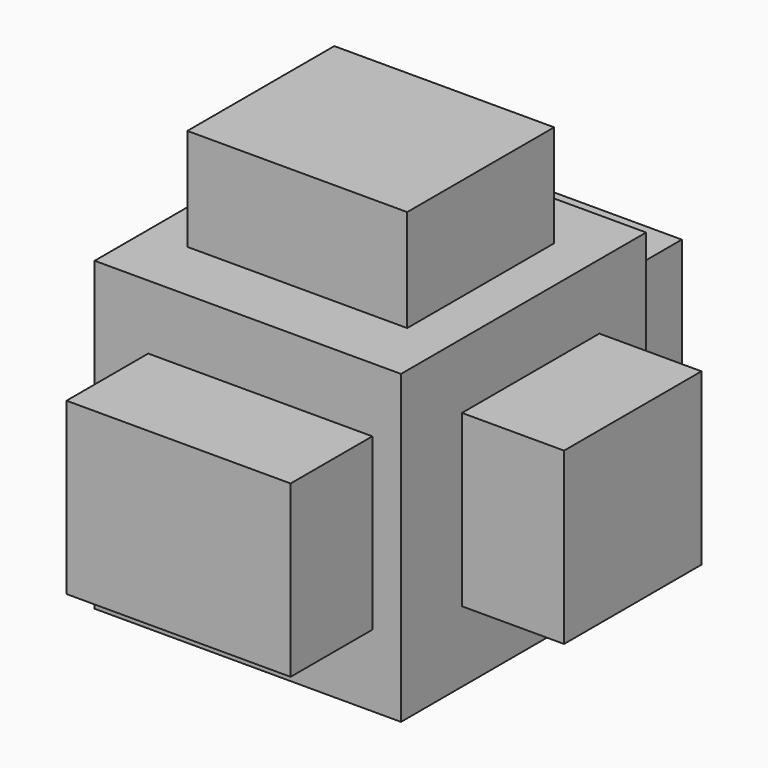
from build123d import *

# Parameters (mm, degrees)
F0_W     = 76.2
F0_H     = 76.2
F1_DEPTH = 76.2
F2_W     = 54.685028
F2_H     = 45.677146
F3_DEPTH = 25.4
F4_W     = 42.722562
F4_H     = 42.343364
F5_DEPTH = 25.4
F6_W     = 55.741564
F6_H     = 42.343369
F7_DEPTH = 25.4
F8_W     = 50.938437
F8_H     = 42.216968
F9_DEPTH = 25.4


with BuildPart() as f1:
    # F0 (on Front) → F1 (new body)
    with BuildSketch(Plane.XZ):
        with Locations((-10.427844, 12.754826)):
            Rectangle(F0_W, F0_H)
    extrude(amount=F1_DEPTH)

    # F2 (on face) → F3 (join)
    with BuildSketch(Plane.XY.offset(50.854826)):
        with Locations((-10.77026, -37.553833)):
            Rectangle(F2_W, F2_H)
    extrude(amount=F3_DEPTH)

    # F4 (on face) → F5 (join)
    with BuildSketch(Plane.YZ.offset(27.672156)):
        with Locations((-35.888034, 13.447009)):
            Rectangle(F4_W, F4_H)
    extrude(amount=F5_DEPTH)

    # F6 (on face) → F7 (join)
    with BuildSketch(Plane.XZ.offset(76.2)):
        with Locations((-7.334102, 13.699804)):
            Rectangle(F6_W, F6_H)
    extrude(amount=F7_DEPTH)

    # F8 (on face) → F9 (join)
    with BuildSketch(Plane(origin=(0, 0, 0), x_dir=(-1, 0, 0), z_dir=(0, 1, 0))):
        with Locations((9.230072, 14.142198)):
            Rectangle(F8_W, F8_H)
    extrude(amount=F9_DEPTH)


solid = f1.part
